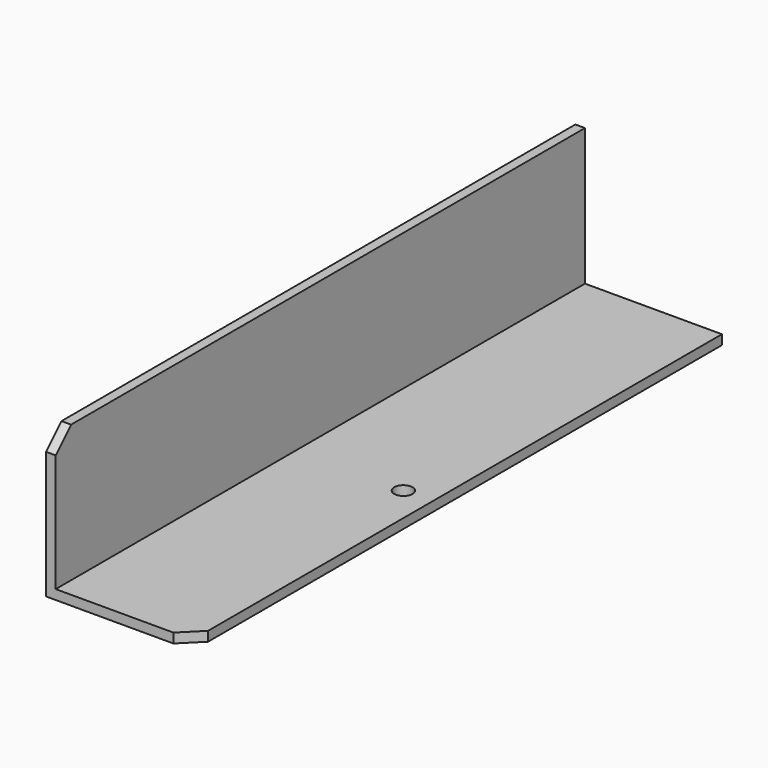
from build123d import *

# Parameters (mm, degrees)
F1_DEPTH = 343.9
F2_SIZE  = 10
F3_SIZE  = 10
F5_D     = 9.525


with BuildPart() as f1:
    # F0 (on Front) → F1 (new body)
    with BuildSketch(Plane.XZ):
        Polygon((0, 76.2), (0, 0), (76.2, 0), (76.2, 5), (5, 5), (5, 76.2), align=None)
    extrude(amount=F1_DEPTH)

    # F2
    f2_edges = [f1.edges().sort_by_distance(p)[0] for p in [
        (76.2, -343.9, 2.5),
    ]]
    chamfer(f2_edges, length=F2_SIZE)

    # F3
    f3_edges = [f1.edges().sort_by_distance(p)[0] for p in [
        (2.5, -343.9, 76.2),
    ]]
    chamfer(f3_edges, length=F3_SIZE)

    # F5 (through all)
    with Locations(Plane(origin=(0, 0, 0), x_dir=(1, 0, 0), z_dir=(0, 0, -1))):
        with Locations((61.11, 188.11)):
            Hole(F5_D / 2)


solid = f1.part
